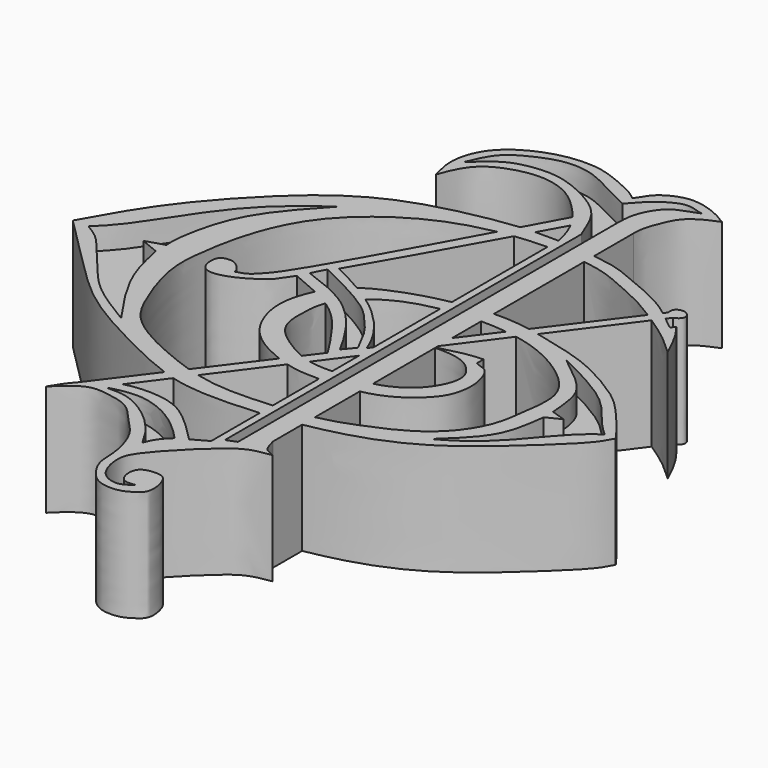
from build123d import *

# Parameters (mm, degrees)
F1_DEPTH  = 10
F3_DEPTH  = 10
F5_DEPTH  = 10
F7_DEPTH  = 10
F9_DEPTH  = 10
F12_DEPTH = 2
F14_DEPTH = 2
F16_DEPTH = 2
F18_DEPTH = 2
F20_DEPTH = 2


with BuildPart() as f1:
    # F0 (on Top) → F1 (new body)
    with BuildSketch(Plane.XY):
        with BuildLine():
            add(Edge.make_bspline(
                [(7.188222371, 28.3089261502), (6.7232274772, 28.121054228), (5.7740847256, 27.7199332966), (4.4888839658, 26.7700484661), (3.8409397351, 25.0571857715), (3.4262444824, 24.0436047316), (3.4286088776, 23.0652559549)],
                knots=[0, 0, 0, 0, 0.2357691738, 0.4729481985, 0.7203822604, 1, 1, 1, 1], degree=3))
            add(Edge.make_bspline(
                [(7.188222371, 28.3089261502), (6.5328198656, 28.7456827771), (5.2597194275, 29.3884231363), (2.9908376378, 29.827247794), (0.6344577212, 28.5388746175), (0.4061338521, 27.6136335706), (0, 27.2206179798)],
                knots=[0, 0, 0, 0, 0.2589433873, 0.5197522273, 0.7893686616, 1, 1, 1, 1], degree=3))
            add(Edge.make_bspline(
                [(0, 27.2206179798), (-0.5760667802, 27.7348640237), (-2.3685599441, 28.5656527576), (-4.8485458235, 29.5158871154), (-8.2978351431, 29.2634644035), (-11.2950194696, 27.8305153872), (-12.9483988096, 26.019274142), (-13.6043412405, 23.5173559075), (-13.1844004252, 22.154159893), (-12.9949655384, 21.3867593557)],
                knots=[0, 0, 0, 0, 0.1414880596, 0.2842460908, 0.4440610689, 0.6015482547, 0.7358710072, 0.8706689018, 1, 1, 1, 1], degree=3))
            add(Edge.make_bspline(
                [(-12.9949655384, 21.3867593557), (-12.6181963825, 22.4781178896), (-11.802741837, 24.310778133), (-9.2453220294, 25.4426596842), (-6.844720651, 25.8753632128), (-3.9622432629, 25.1341878271), (-1.74101096, 22.7338320687), (-0.7909684558, 21.4752902521), (-0.1378131669, 19.8060629577), (0, 18.9685188234)],
                knots=[0, 0, 0, 0, 0.1561435895, 0.298951713, 0.4364132388, 0.5874006851, 0.7444993585, 0.8579841138, 1, 1, 1, 1], degree=3))
            Line((0, 18.9685188234), (0, -20.1229887319))
            add(Edge.make_bspline(
                [(-1.3723054435, -20.8904366699), (-0.9148702957, -20.6385171501), (-0.4574351478, -20.3749082517), (0, -20.1229887319)],
                knots=[0, 0, 0, 0, 1.5723226666, 1.5723226666, 1.5723226666, 1.5723226666], degree=3))
            add(Edge.make_bspline(
                [(-14.2341414467, -20.8904366699), (-13.7786768701, -20.0800933378), (-12.8153689701, -18.7166960344), (-10.9091095607, -17.2886440738), (-8.3860760338, -16.8714682474), (-5.4101524073, -17.2029712012), (-3.175109015, -19.0857170072), (-1.9552211157, -20.2702351819), (-1.3723054435, -20.8904366699)],
                knots=[0, 0, 0, 0, 0.1666565283, 0.3219977806, 0.4851032543, 0.6610502251, 0.8349788457, 1, 1, 1, 1], degree=3))
            add(Edge.make_bspline(
                [(0, -28.6570075659), (-0.3120832944, -28.7034532728), (-0.930265908, -28.7954948861), (-1.5547730704, -28.0622590768), (-1.5425414325, -26.4745490128), (0.0318416673, -26.2746419498), (1.0918896545, -26.4445165479), (1.6185157885, -28.7702894384), (0.7508452706, -29.4847249016), (-0.2887355314, -30.1189218872), (-1.9357077831, -30.1151941381), (-3.0797473077, -29.3882415706), (-4.2475579461, -27.6383870498), (-4.1647361102, -25.9359679126), (-4.5618317082, -24.042266366), (-5.3496653229, -22.3914017204), (-6.562046867, -21.3409945062), (-7.9594551024, -19.4568093399), (-10.0170218986, -19.1019691468), (-11.9805699002, -18.7718955202), (-13.4755364064, -20.1229887319), (-14.2341414467, -20.8904366699)],
                knots=[0, 0, 0, 0, 0.0394749109, 0.0781500805, 0.1260964378, 0.174754643, 0.2161985242, 0.2762086791, 0.3185023368, 0.3644713347, 0.4168209812, 0.4654524551, 0.5246984689, 0.579534322, 0.6379370667, 0.6939947714, 0.7474708171, 0.8105179451, 0.8701950993, 0.9272346106, 1, 1, 1, 1], degree=3))
            add(Edge.make_bspline(
                [(4.7123320401, -19.1038399935), (4.0832587351, -19.1911152659), (2.7247754938, -19.3882816681), (0.770660885, -20.8356991004), (-3.0705608285, -24.7254304033), (-3.5675218179, -26.4167546502), (-2.9714633149, -28.8955218983), (-1.0267041914, -29.4966235212), (-0.3235453694, -28.92159678), (0, -28.6570075659)],
                knots=[0, 0, 0, 0, 0.1302335662, 0.2814058312, 0.501558618, 0.6280520409, 0.7708501147, 0.8945532828, 1, 1, 1, 1], degree=3))
            add(Edge.make_bspline(
                [(3.4286088776, -17.4706317484), (3.5510859029, -17.8162075796), (3.7013203625, -18.8037212596), (4.4195674658, -18.961485001), (4.7123320401, -19.1038399935)],
                knots=[0, 0, 0, 0, 0.5316344764, 1, 1, 1, 1], degree=3))
            Line((3.4286088776, -17.4706317484), (3.4286088776, 23.0652559549))
        make_face()
    extrude(amount=F1_DEPTH)

    # F2 (on Top) → F3 (join)
    with BuildSketch(Plane.XY):
        with BuildLine():
            add(Edge.make_bspline(
                [(-28.5414773971, 0), (-27.4532837581, 1.9570586249), (-25.2527008834, 5.9146903741), (-20.4477370034, 11.2575923716), (-17.0182609637, 14.2899712498), (-13.6206523983, 16.3545407993), (-9.8135273384, 17.7320468416), (-4.5971291732, 18.7799983496), (-1.0555991903, 19.0253562447), (5.2538429285, 18.6255656133), (7.9526152992, 17.2818161749), (11.7326899188, 15.8809274263), (14.2655018611, 13.4554167288), (14.3853897623, 13.5065372719), (14.4001655281, 13.5128377005)],
                knots=[0, 0, 0, 0, 0.1092751743, 0.220980043, 0.3103407365, 0.3918510549, 0.4766875577, 0.5714865836, 0.6531400685, 0.7559068626, 0.8291431025, 0.9159470831, 0.9896407711, 1, 1, 1, 1], degree=3))
            add(Edge.make_bspline(
                [(21.9323472368, -2.0921300602), (21.7282008376, -2.484765745), (21.1773601565, -3.5369761215), (18.0750761886, -6.4947633881), (13.5266907269, -10.5816850951), (8.3296107526, -13.2200025378), (2.1511278118, -14.5097562981), (-2.6017117934, -14.886881769), (-7.2682832844, -14.8017068485), (-11.806061199, -12.9244263441), (-16.7990476982, -10.3669235339), (-20.5480216447, -7.9801638164), (-24.1209628517, -4.4453829699), (-27.0024976822, -1.5265504379), (-28.5414773971, 0)],
                knots=[0.0001153988, 0.0001153988, 0.0001153988, 0.0001153988, 0.0462328343, 0.1235458597, 0.2181925396, 0.3098837735, 0.4043362902, 0.4872591131, 0.5675691398, 0.6514285717, 0.7410297778, 0.8205123766, 0.9046055932, 1, 1, 1, 1], degree=3))
            add(Edge.make_bspline(
                [(21.9338797033, -2.0891826134), (21.9333688898, -2.0901650934), (21.9328580685, -2.0911475752), (21.9323472368, -2.0921300602)],
                knots=[0, 0, 0, 0, 0.0001153988, 0.0001153988, 0.0001153988, 0.0001153988], degree=3))
            add(Edge.make_bspline(
                [(7.1766749024, 0.7742271409), (7.2506369918, 0.7300093117), (7.4494211883, 0.6111672707), (8.38245646, 0.4305374913), (8.8497955123, -0.7863612347), (9.1575366203, -2.0422272183), (8.8940168285, -3.8112251126), (8.1432083469, -5.0761506543), (6.4397003412, -6.6320145722), (4.3301462948, -7.5882481121), (2.1620471343, -7.9250163123), (-0.6322383541, -8.067483604), (-3.1184859116, -7.8457941635), (-6.6529953669, -6.29083463), (-8.561580355, -4.2072330948), (-9.4907115759, -1.2518711793), (-8.9960934393, 1.3302721292), (-7.5304995698, 4.1878344551), (-4.0488643812, 5.8436494972), (-1.1422615419, 6.7762180805), (4.3333526184, 7.7818034575), (9.194550764, 6.5721069414), (13.1390409575, 5.5772235309), (16.9818256769, 3.3468304558), (18.9760619433, 1.7995249151), (21.9717545066, -1.9687416874), (21.9338797033, -2.0891826134)],
                knots=[0, 0, 0, 0, 0.013920854, 0.0374143807, 0.0654543419, 0.0948936405, 0.1281586348, 0.1589870498, 0.1972563996, 0.2358982353, 0.273696259, 0.3157932383, 0.3565162535, 0.4057650418, 0.4485359878, 0.4920708741, 0.5329407898, 0.5776383776, 0.6263201655, 0.6715354874, 0.7308816042, 0.7880519134, 0.8398929848, 0.8916091008, 0.9374617387, 0.9903738739, 0.9903738739, 0.9903738739, 0.9903738739], degree=3))
            add(Edge.make_bspline(
                [(7.1766749024, 1.5310794115), (7.1766749024, 1.2787953213), (7.1766749024, 1.0265112311), (7.1766749024, 0.7742271409)],
                knots=[0, 0, 0, 0, 0.7568522706, 0.7568522706, 0.7568522706, 0.7568522706], degree=3))
            add(Edge.make_bspline(
                [(3.0339024961, 0.734392961), (3.9684501124, 0.9873099743), (5.6039965235, 1.4299385854), (6.7048476741, 1.5007356386), (7.1766749024, 1.5310794115)],
                knots=[0, 0, 0, 0, 0.571397797, 1, 1, 1, 1], degree=3))
            add(Edge.make_bspline(
                [(16.5953431278, 10.4537336156), (16.0324744396, 10.9787244456), (14.871370885, 12.0616923416), (12.704400221, 13.526174696), (10.0946296204, 15.2266339654), (7.491910311, 16.277704214), (4.798697216, 17.566026883), (-1.0107750343, 17.8625705611), (-6.2003574598, 17.003452458), (-10.6303586426, 15.1669224899), (-15.5333216629, 11.2645965192), (-17.8053624817, 5.993100387), (-18.5268459603, 1.5431791383), (-18.7204792281, -1.6147006175), (-17.1884393028, -6.0624765033), (-15.5211336605, -9.2538048806), (-10.7242674142, -11.665953002), (-6.0110964347, -13.3439341202), (-1.5070279914, -13.382116819), (3.7436581216, -12.8512005115), (6.8271650664, -11.696417883), (11.2531032947, -9.8150147947), (14.02817658, -6.0899124764), (14.3591438082, -2.7957215751), (14.930076232, 0.7954770913), (12.2446168987, 3.472501605), (8.9581379284, 5.2513128237), (5.2047694882, 6.0116992909), (1.5540805283, 5.9297203984), (-1.6662179815, 5.3369364416), (-4.2177082125, 4.2443764152), (-6.9732971602, 1.8831493037), (-7.2220157918, -0.9484197283), (-7.0978300248, -3.4728472272), (-4.6965109243, -5.3133996181), (-2.0135934052, -6.6552455484), (1.1417183842, -6.4736414314), (3.9587441156, -6.3164141189), (6.8201907367, -4.6258401167), (8.012360673, -1.8537124222), (7.3628312637, -0.5250604372), (6.1538603538, 0.6038732528), (4.0836664725, 0.8193106305), (3.3428990053, 0.7593883543), (3.0339024961, 0.734392961)],
                knots=[0, 0, 0, 0, 0.0195903792, 0.0404116616, 0.0631118078, 0.084388345, 0.1063581762, 0.13708032, 0.1667225252, 0.1946568049, 0.2263870372, 0.2571076053, 0.2840013304, 0.3067902263, 0.3341638121, 0.3583581827, 0.3875349095, 0.4163355611, 0.443724224, 0.4728311014, 0.4963467365, 0.524156775, 0.5511954021, 0.5745308597, 0.59802986, 0.6219308261, 0.646843934, 0.6718508377, 0.6964441195, 0.7194356921, 0.7409276272, 0.7646442236, 0.7858564939, 0.805526488, 0.8270952798, 0.8493351901, 0.8718375638, 0.8933977367, 0.916472418, 0.937761243, 0.9524662966, 0.9686465566, 0.9869215307, 1, 1, 1, 1], degree=3))
            add(Edge.make_bspline(
                [(14.6525418386, 13.8536347076), (14.943950252, 13.4686610647), (15.6002692243, 12.601611611), (16.2397786214, 11.2212235243), (16.5953431278, 10.4537336156)],
                knots=[0, 0, 0, 0, 0.4440042506, 1, 1, 1, 1], degree=3))
            add(Edge.make_bspline(
                [(14.4001655281, 13.5128377005), (14.4842909649, 13.6264367029), (14.5684164017, 13.7400357053), (14.6525418386, 13.8536347076)],
                knots=[0, 0, 0, 0, 0.424071223, 0.424071223, 0.424071223, 0.424071223], degree=3))
        make_face()
        with BuildLine():
            add(Edge.make_bspline(
                [(21.9338797033, -2.0891826134), (21.9333688898, -2.0901650934), (21.9328580685, -2.0911475752), (21.9323472368, -2.0921300602)],
                knots=[0, 0, 0, 0, 0.0001153988, 0.0001153988, 0.0001153988, 0.0001153988], degree=3))
            add(Edge.make_bspline(
                [(21.9338797033, -2.0891826134), (21.9335169405, -2.09033619), (21.9330034736, -2.091315616), (21.9323472368, -2.0921300602)],
                knots=[0.9903738739, 0.9903738739, 0.9903738739, 0.9903738739, 0.9908806634, 0.9908806634, 0.9908806634, 0.9908806634], degree=3))
        make_face()
    extrude(amount=F3_DEPTH)

    # F4 (on Top) → F5 (join)
    with BuildSketch(Plane.XY):
        with BuildLine():
            add(Edge.make_bspline(
                [(0.7635132642, 24.0231286734), (-4.8067675831, 13.9440688215), (-11.3681127418, 2.0717427439), (-12.4705344105, 1.4535200012), (-13.290293802, 0.8038234808), (-15.199023239, -0.1285618261), (-16.4565511774, -0.1029571632), (-17.024748596, 0.3827188089), (-17.2250268497, 1.3610356259), (-16.9600179637, 2.1831745785), (-16.0171836973, 2.2583192182), (-15.4550869899, 2.0355874261), (-14.8203261983, 1.3009643366), (-14.8194104937, 1.092184242), (-14.8190949112, 1.0202316334)],
                knots=[0, 0, 0, 0, 0.3297809589, 0.3884555837, 0.4525358217, 0.5486818282, 0.6199252293, 0.6727705822, 0.736850816, 0.7936066805, 0.8522813054, 0.904715047, 0.967161616, 1, 1, 1, 1], degree=3))
            add(Edge.make_bspline(
                [(-0.5472407211, 24.0231286734), (-0.110322726, 24.0231286734), (0.3265952691, 24.0231286734), (0.7635132642, 24.0231286734)],
                knots=[0, 0, 0, 0, 1.3107539853, 1.3107539853, 1.3107539853, 1.3107539853], degree=3))
            add(Edge.make_bspline(
                [(-14.8190949112, 1.0202316334), (-14.5038264038, 1.1003289845), (-13.8545095305, 1.2652949114), (-12.9911799219, 2.1786042012), (-11.367929919, 4.0668695638), (-5.264292156, 15.3236180464), (-0.5472407211, 24.0231286734)],
                knots=[0, 0, 0, 0, 0.1190387769, 0.2451684345, 0.4166463579, 1, 1, 1, 1], degree=3))
        make_face()
    extrude(amount=F5_DEPTH)

    # F6 (on Top) → F7 (join)
    with BuildSketch(Plane.XY):
        with BuildLine():
            Line((12.8369657323, 15.1784475893), (-12.9911918193, -19.1289111972))
            Line((-12.9911918193, -19.1289111972), (-11.3837607205, -18.7862217426))
            Line((-11.3837607205, -18.7862217426), (13.6077702045, 14.7764887661))
            add(Edge.make_bspline(
                [(12.8369657323, 15.1784475893), (12.8223191955, 15.2911821574), (12.7848945445, 15.6101429466), (13.0698474054, 16.0100291013), (13.7762611791, 16.1022614292), (14.2389667873, 15.6251243025), (14.2389388346, 15.1333765894), (13.8320162743, 14.8402346244), (13.6077702045, 14.7764887661)],
                knots=[0, 0, 0, 0, 0.1468772859, 0.3002694807, 0.4839308308, 0.6609839875, 0.8098675175, 1, 1, 1, 1], degree=3))
        make_face()
    extrude(amount=F7_DEPTH)

    # F8 (on Top) → F9 (join)
    with BuildSketch(Plane.XY):
        with BuildLine():
            add(Edge.make_bspline(
                [(-9.8272142932, 6.1713755131), (-9.2497306986, 5.8929263155), (-7.8116721219, 5.202715865), (-3.9392181004, 2.9927280953), (-1.1310988416, -0.1734416001), (-0.4325667137, -1.9166483238), (-0.1922028605, -2.5699895341)],
                knots=[0, 0, 0, 0, 0.2033002552, 0.4968055002, 0.7839192962, 1, 1, 1, 1], degree=3))
            add(Edge.make_bspline(
                [(-11.3668823615, 3.4128031693), (-10.853659672, 4.3323272839), (-10.3404369826, 5.2518513985), (-9.8272142932, 6.1713755131)],
                knots=[0, 0, 0, 0, 3.1591611444, 3.1591611444, 3.1591611444, 3.1591611444], degree=3))
            add(Edge.make_bspline(
                [(-1.917275833, -4.6970215626), (-2.3147440112, -3.9572293993), (-3.286494248, -2.5698806502), (-4.8748074439, -0.2770224993), (-6.9914884942, 1.5242298025), (-9.6658490201, 2.7010629205), (-10.8508777871, 3.1953100417), (-11.3668823615, 3.4128031693)],
                knots=[0, 0, 0, 0, 0.1994300919, 0.407771343, 0.6176887273, 0.8312017207, 1, 1, 1, 1], degree=3))
            add(Edge.make_bspline(
                [(-0.1922028605, -2.5699895341), (-0.7481941332, -3.2970550625), (-1.3612845602, -3.9699560342), (-1.917275833, -4.6970215626)],
                knots=[0, 0, 0, 0, 2.7386387149, 2.7386387149, 2.7386387149, 2.7386387149], degree=3))
        make_face()
    extrude(amount=F9_DEPTH)


with BuildPart() as f12:
    # F11 (on offset) → F12 (new body)
    with BuildSketch(Plane.XY.offset(10)):
        with BuildLine():
            add(Edge.make_bspline(
                [(-12.6239638776, 24.1555981338), (-12.3393846391, 24.841230736), (-11.6780347235, 26.4639505688), (-9.7685146361, 27.6456102697), (-7.3086330183, 28.6700001273), (-5.1460758364, 28.5523786651), (-3.4729419003, 27.9304695194), (-1.2643391264, 26.6973511389), (-0.3707379881, 26.2863795092), (0, 26.1137541384)],
                knots=[0, 0, 0, 0, 0.1515395244, 0.2974898744, 0.4567177932, 0.5977612943, 0.7297715615, 0.8851155475, 1, 1, 1, 1], degree=3))
            add(Edge.make_bspline(
                [(0.652337505, 20.6686314195), (0.3727840944, 21.3084314486), (-0.2759801942, 23.1281339504), (-1.5955509537, 24.533544906), (-3.7074259209, 25.7746587065), (-5.8702708598, 26.5533423076), (-7.6960401225, 26.6202756863), (-9.5382028996, 26.3143418235), (-11.0236910411, 25.6333540136), (-12.0856394376, 24.5351917154), (-12.6239638776, 24.1555981338)],
                knots=[0, 0, 0, 0, 0.1387129742, 0.2604218185, 0.3954280601, 0.5271899076, 0.6442279628, 0.76120049, 0.8725866357, 1, 1, 1, 1], degree=3))
            Line((0.652337505, 20.6686314195), (0.652337505, -19.404929442))
            Line((0.652337505, -19.404929442), (1.5511908568, -19.0441869199))
            Line((1.5511908568, -19.0441869199), (1.5511908568, 23.843197152))
            add(Edge.make_bspline(
                [(5.2956198342, 28.4241456538), (4.9600866002, 28.2894794397), (4.2443004348, 28.0021987676), (2.8293506074, 27.5658888541), (1.6259468928, 25.4973205018), (1.5747823195, 24.3652043542), (1.5511908568, 23.843197152)],
                knots=[0, 0, 0, 0, 0.2092761597, 0.4464445388, 0.744761226, 1, 1, 1, 1], degree=3))
            add(Edge.make_bspline(
                [(0, 26.1137541384), (0.2809709775, 26.4178111295), (0.8443706103, 27.0627925515), (1.6547409428, 27.8559230188), (3.344010422, 28.8927195389), (4.5023335431, 28.6591078071), (5.0589983062, 28.44545825), (5.2956198342, 28.4241456538)],
                knots=[0, 0, 0, 0, 0.2010622576, 0.3976370266, 0.6462182171, 0.839002998, 1, 1, 1, 1], degree=3))
        make_face()
    extrude(amount=-F12_DEPTH)


with BuildPart() as f14:
    # F13 (on offset) → F14 (new body)
    with BuildSketch(Plane.XY.offset(10)):
        with BuildLine():
            add(Edge.make_bspline(
                [(-15.1807889342, 13.4248947725), (-16.1836372138, 12.3453998788), (-18.1652353175, 10.2123503659), (-20.3156596451, 6.8480520097), (-21.1690570403, 2.5221906758), (-21.1003382806, 1.5397849715), (-21.0762731731, 1.1957493844)],
                knots=[0, 0, 0, 0, 0.285881821, 0.5648938986, 0.8476271235, 1, 1, 1, 1], degree=3))
            add(Edge.make_bspline(
                [(-15.1807889342, 13.4248947725), (-16.9308979733, 12.1363693504), (-20.480546933, 9.5229248038), (-24.2925157659, 3.3522299526), (-25.8301019611, 1.2805027943), (-26.7263079397, 0.3984108827), (-27.131093666, 0)],
                knots=[0, 0, 0, 0, 0.3176851622, 0.6443431697, 0.8393619193, 1, 1, 1, 1], degree=3))
            add(Edge.make_bspline(
                [(-27.131093666, 0), (-26.689552735, -0.2698591859), (-25.7600058019, -0.8379758906), (-24.559503954, -2.2971370867), (-22.4180956301, -4.8972331395), (-20.5424275432, -7.0875063352), (-18.0183253203, -8.6249670692), (-16.6148245335, -9.4798561186)],
                knots=[0, 0, 0, 0, 0.1499564295, 0.3156933579, 0.5350813172, 0.7414868022, 1, 1, 1, 1], degree=3))
            add(Edge.make_bspline(
                [(-16.6148245335, -9.4798561186), (-17.3838945052, -8.3748970297), (-18.8653328361, -6.2464447321), (-20.405225878, -3.1713739071), (-20.8548141246, -1.046616912), (-21.0762731731, 0)],
                knots=[0, 0, 0, 0, 0.3539243964, 0.681754829, 1, 1, 1, 1], degree=3))
            Line((-21.0762731731, 0), (-22.7493159473, 0.6779027171))
            Line((-22.7493159473, 0.6779027171), (-21.0762731731, 1.1957493844))
        make_face()
    extrude(amount=-F14_DEPTH)


with BuildPart() as f16:
    # F15 (on offset) → F16 (new body)
    with BuildSketch(Plane.XY.offset(10)):
        with BuildLine():
            add(Edge.make_bspline(
                [(11.7721408606, 5.0778659061), (13.2774674588, 4.3456871689), (17.4064580706, 2.3662937009), (19.3439480941, -0.5649471829), (20.5470953842, -1.7079231733), (20.9459960461, -2.0751752891)],
                knots=[0, 0, 0, 0, 0.427220566, 0.7549304327, 1, 1, 1, 1], degree=3))
            add(Edge.make_bspline(
                [(11.7721408606, 5.0778659061), (12.4002826312, 4.5650730487), (14.5999887126, 2.939682571), (15.7627552706, 1.1613907091), (15.8920097165, -0.7759169284), (15.9741509706, -1.6581818927)],
                knots=[0, 0, 0, 0, 0.3709038751, 0.6689720699, 1, 1, 1, 1], degree=3))
            Line((15.9741509706, -1.6581818927), (17.2572080046, -2.0751752891))
            Line((17.2572080046, -2.0751752891), (15.9741509706, -2.7167038061))
            add(Edge.make_bspline(
                [(11.8362940848, -10.2546615526), (12.884378908, -9.2755627637), (14.7568954974, -7.5262971659), (15.6742950388, -5.1081666829), (15.8749704403, -3.5077055208), (15.9741509706, -2.7167038061)],
                knots=[0, 0, 0, 0, 0.3913466871, 0.6991830695, 1, 1, 1, 1], degree=3))
            add(Edge.make_bspline(
                [(20.9459960461, -2.0751752891), (20.5480153968, -2.3403439944), (19.5659614796, -3.0606060112), (17.8713304227, -4.9607780042), (15.9546481275, -7.3536558523), (13.5791494571, -9.29973962), (12.3718149797, -9.9630829244), (11.8362940848, -10.2546615526)],
                knots=[0, 0, 0, 0, 0.1636318845, 0.3683967229, 0.5966776411, 0.8210284667, 1, 1, 1, 1], degree=3))
        make_face()
    extrude(amount=-F16_DEPTH)


with BuildPart() as f18:
    # F17 (on offset) → F18 (new body)
    with BuildSketch(Plane.XY.offset(10)):
        with BuildLine():
            add(Edge.make_bspline(
                [(-3.6230627447, -23.3235657215), (-3.9340587488, -22.7669687162), (-4.577571682, -21.61525819), (-6.166335137, -20.0151016988), (-7.7686549071, -18.9225635285), (-9.4437839686, -18.2677654971), (-11.4940030436, -18.4913487125), (-8.7214270789, -17.798062384), (-7.0578933465, -18.0953577428), (-5.3843395765, -18.7320095691), (-3.5735038441, -20.0242379705), (-2.6995006172, -20.9445610608), (-2.279934939, -21.3863626122)],
                knots=[0, 0, 0, 0, 0.1024236359, 0.2119349879, 0.3139607118, 0.4171049475, 0.4926079521, 0.5916787678, 0.6940033665, 0.7903996283, 0.8993812387, 1, 1, 1, 1], degree=3))
            add(Edge.make_bspline(
                [(-2.279934939, -21.3863626122), (-2.5803562182, -21.6741842583), (-3.1725141793, -22.2415071842), (-3.4743554926, -22.9664234197), (-3.6230627447, -23.3235657215)],
                knots=[0, 0, 0, 0, 0.5073330071, 1, 1, 1, 1], degree=3))
        make_face()
    extrude(amount=-F18_DEPTH)


with BuildPart() as f20:
    # F19 (on offset) → F20 (new body)
    with BuildSketch(Plane.XY.offset(10)):
        with BuildLine():
            add(Edge.make_bspline(
                [(-9.9330442026, 5.3587229922), (-10.1396792258, 4.9540627127), (-10.3463142489, 4.5494024331), (-10.5529492721, 4.1447421536)],
                knots=[0, 0, 0, 0, 1.3630963912, 1.3630963912, 1.3630963912, 1.3630963912], degree=3))
            add(Edge.make_bspline(
                [(-10.5529492721, 4.1447421536), (-10.0035757327, 3.9459449656), (-8.8295740582, 3.5211188413), (-6.6806017221, 2.5458193439), (-5.0400150116, 1.2360432459), (-3.7540136851, -0.1767238407), (-2.4700610975, -2.0857303231), (-1.9046239435, -3.1222880507), (-1.6418130836, -3.6040721461)],
                knots=[0, 0, 0, 0, 0.1581282139, 0.3379172359, 0.5069062262, 0.6691855816, 0.8462399912, 1, 1, 1, 1], degree=3))
            add(Edge.make_bspline(
                [(-1.6418130836, -3.6040721461), (-1.3662996935, -3.2682901559), (-1.0907863034, -2.9325081656), (-0.8152729133, -2.5967261754)],
                knots=[0, 0, 0, 0, 1.303040505, 1.303040505, 1.303040505, 1.303040505], degree=3))
            add(Edge.make_bspline(
                [(-0.8152729133, -2.5967261754), (-1.0396622838, -2.1666871558), (-1.4712405006, -1.339573675), (-2.0113699311, -0.2906875743), (-3.4023939427, 1.4066972853), (-4.8853011825, 2.776595952), (-7.9696655374, 4.4291413486), (-9.3301415862, 5.0732726025), (-9.9330442026, 5.3587229922)],
                knots=[0, 0, 0, 0, 0.1388926569, 0.2671385238, 0.4371157729, 0.6083088292, 0.8264198536, 1, 1, 1, 1], degree=3))
        make_face()
    extrude(amount=-F20_DEPTH)


with BuildPart() as f1_1:
    add(f1.part)

    # F21: cut F12, F14, F16, F18, F20
    add(f12.part, mode=Mode.SUBTRACT)
    add(f14.part, mode=Mode.SUBTRACT)
    add(f16.part, mode=Mode.SUBTRACT)
    add(f18.part, mode=Mode.SUBTRACT)
    add(f20.part, mode=Mode.SUBTRACT)


solid = f1_1.part
